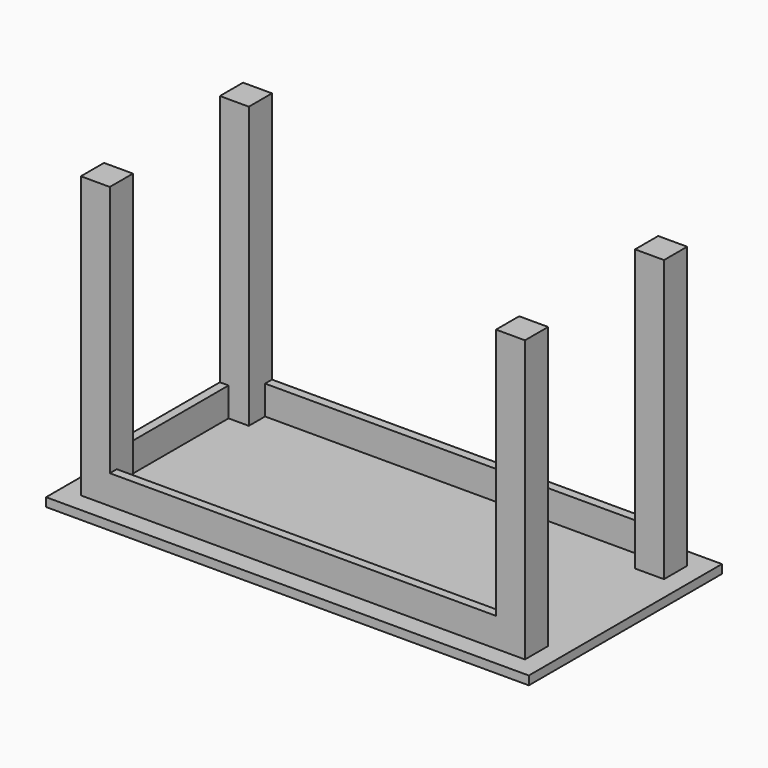
from build123d import *

# Parameters (mm, degrees)
SKETCH_W                = 1000
SKETCH_H                = 500
PAD_DEPTH               = 18
SKETCH001_W             = 60
SKETCH001_H             = 60
PAD001_DEPTH            = 582
SKETCH001_MIRRORED_2_W  = 60
SKETCH001_MIRRORED_2_H  = 60
PAD001_MIRRORED_2_DEPTH = 582
SKETCH002_W             = 800
SKETCH002_H             = 18
PAD002_DEPTH            = 60
SKETCH003_W             = 18
SKETCH003_H             = 300
PAD003_DEPTH            = 60


with BuildPart() as part:
    # Sketch → Pad (new body)
    with BuildSketch(Plane.XY):
        Rectangle(SKETCH_W, SKETCH_H)
    extrude(amount=PAD_DEPTH)

    # Sketch001 → Pad001 (join)
    with BuildSketch(Plane.XY.offset(18)):
        with Locations((-430, 180)):
            Rectangle(SKETCH001_W, SKETCH001_H)
    pad001 = extrude(amount=PAD001_DEPTH)

    # Sketch001 Mirrored 2 → Pad001 Mirrored 2 (add)
    with BuildSketch(Plane(origin=(0, 0, 18), x_dir=(-1, 0, 0), z_dir=(0, 0, -1))):
        with Locations((-430, 180)):
            Rectangle(SKETCH001_MIRRORED_2_W, SKETCH001_MIRRORED_2_H)
    pad001_mirrored_2 = extrude(amount=-PAD001_MIRRORED_2_DEPTH)

    # Mirrored001: Pad001, Pad001 Mirrored 2 across Sketch001 H_Axis
    add(pad001.mirror(Plane(origin=(0, 0, 18), x_dir=(0, 0, 1), z_dir=(0, 1, 0))))
    add(pad001_mirrored_2.mirror(Plane(origin=(0, 0, 18), x_dir=(0, 0, 1), z_dir=(0, 1, 0))))

    # Sketch002 → Pad002 (join)
    with BuildSketch(Plane.XY.offset(18)):
        with Locations((0, 201)):
            Rectangle(SKETCH002_W, SKETCH002_H)
    pad002 = extrude(amount=PAD002_DEPTH)

    # Sketch003 → Pad003 (join)
    with BuildSketch(Plane.XY.offset(18)):
        with Locations((-451, 0)):
            Rectangle(SKETCH003_W, SKETCH003_H)
    extrude(amount=PAD003_DEPTH)

    # Mirrored003: Pad002 across Sketch002 H_Axis
    add(pad002.mirror(Plane(origin=(0, 0, 18), x_dir=(0, 0, 1), z_dir=(0, 1, 0))))


solid = part.part
